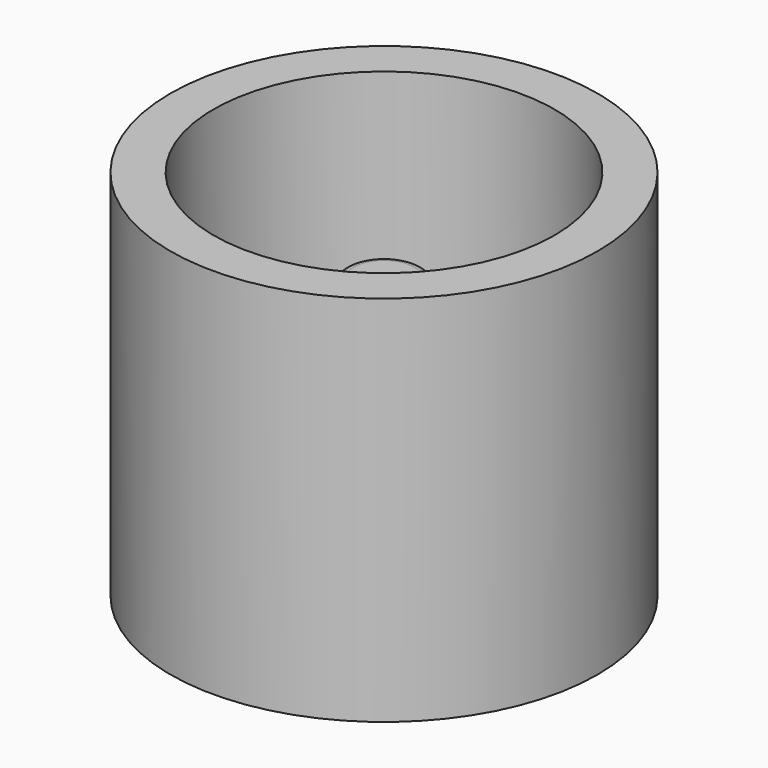
from build123d import *

# Parameters (mm, degrees)
SKETCH_R     = 22.925405
PAD_DEPTH    = 40
SKETCH001_R  = 18.304244
POCKET_DEPTH = 32
SKETCH002_R  = 5.45658
PAD001_DEPTH = 2
SKETCH003_R  = 4.228884
PAD002_DEPTH = 20
FILLET_R     = 1


with BuildPart() as part:
    # Sketch → Pad (new body)
    with BuildSketch(Plane.XY):
        Circle(SKETCH_R)
    extrude(amount=PAD_DEPTH)

    # Sketch001 (on Face3 of Pad) → Pocket (cut)
    with BuildSketch(Plane.XY.offset(40)):
        Circle(SKETCH001_R)
    extrude(amount=-POCKET_DEPTH, mode=Mode.SUBTRACT)

    # Sketch002 (on Face5 of Pocket) → Pad001 (join)
    with BuildSketch(Plane.XY.offset(8)):
        Circle(SKETCH002_R)
    extrude(amount=PAD001_DEPTH)

    # Sketch003 (on Face7 of Pad001) → Pad002 (join)
    with BuildSketch(Plane.XY.offset(10)):
        Circle(SKETCH003_R)
    extrude(amount=PAD002_DEPTH)

    # Fillet
    fillet_edges = [part.edges().sort_by_distance(p)[0] for p in [
        (-4.228884, 0, 30),
    ]]
    fillet(fillet_edges, radius=FILLET_R)


solid = part.part
